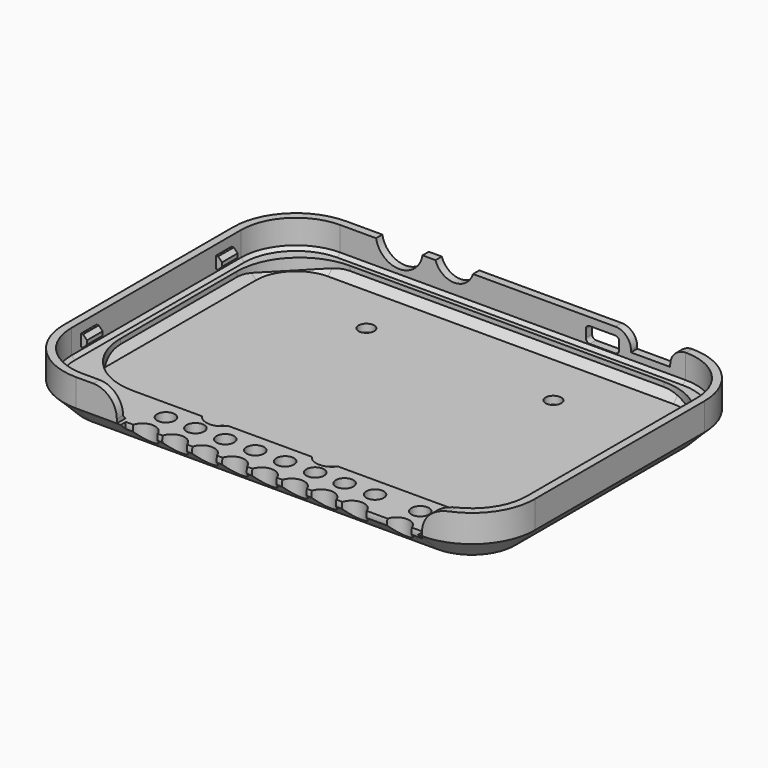
from build123d import *

# Parameters (mm, degrees)
CYLINDER053_R                = 4
CYLINDER053_DEPTH            = 10
CYLINDER051_R                = 4
CYLINDER051_DEPTH            = 10
CYLINDER048_R                = 2
CYLINDER048_DEPTH            = 10
CYLINDER049_R                = 2
CYLINDER049_DEPTH            = 10
CYLINDER050_R                = 2
CYLINDER050_DEPTH            = 10
CYLINDER047_R                = 2
CYLINDER047_DEPTH            = 10
CYLINDER025_R                = 6
CYLINDER025_DEPTH            = 10
BOX016_W                     = 8.5
BOX016_H                     = 8
BOX016_DEPTH                 = 4
FILLET028_R                  = 1
BOX006_W                     = 10
BOX006_H                     = 8
BOX006_DEPTH                 = 9
CYLINDER_R                   = 5
CYLINDER_DEPTH               = 10
BOX022_W                     = 5
BOX022_H                     = 17
BOX022_DEPTH                 = 25
BOX021_W                     = 5
BOX021_H                     = 17
BOX021_DEPTH                 = 25
CYLINDER046_W                = 4
CYLINDER046_H                = 76
CYLINDER046_ANGLE            = 120
THICKNESS002_T               = 2
THICKNESS002_PLACEMENT_ANGLE = 180
CUT014_PLACEMENT_ANGLE       = 180
CYLINDER041_R                = 3.25
CYLINDER041_DEPTH            = 12
CYLINDER044_R                = 3.25
CYLINDER044_DEPTH            = 12
CYLINDER038_R                = 3.25
CYLINDER038_DEPTH            = 12
CYLINDER036_R                = 3.25
CYLINDER036_DEPTH            = 12
CYLINDER037_R                = 3.25
CYLINDER037_DEPTH            = 12
CYLINDER042_R                = 3.25
CYLINDER042_DEPTH            = 12
CYLINDER043_R                = 3.25
CYLINDER043_DEPTH            = 12
CYLINDER045_R                = 3.25
CYLINDER045_DEPTH            = 12
CYLINDER039_R                = 3.25
CYLINDER039_DEPTH            = 12
CYLINDER040_R                = 3.25
CYLINDER040_DEPTH            = 12
CYLINDER006_R                = 2.25
CYLINDER006_DEPTH            = 12
CYLINDER009_R                = 2.25
CYLINDER009_DEPTH            = 12
CYLINDER013_R                = 2.25
CYLINDER013_DEPTH            = 12
CYLINDER011_R                = 2.25
CYLINDER011_DEPTH            = 12
CYLINDER012_R                = 2.25
CYLINDER012_DEPTH            = 12
CYLINDER007_R                = 2.25
CYLINDER007_DEPTH            = 12
CYLINDER008_R                = 2.25
CYLINDER008_DEPTH            = 12
CYLINDER010_R                = 2.25
CYLINDER010_DEPTH            = 12
CYLINDER014_R                = 2.25
CYLINDER014_DEPTH            = 12
CYLINDER005_R                = 2.25
CYLINDER005_DEPTH            = 12
BOX025_W                     = 112
BOX025_H                     = 69
BOX025_DEPTH                 = 8
FILLET035_R                  = 16
FILLET034_R                  = 16
BOX027_W                     = 121.75
BOX027_H                     = 89
BOX027_DEPTH                 = 12
BOX026_W                     = 120
BOX026_H                     = 86
BOX026_DEPTH                 = 6
FILLET036_R                  = 16
FILLET037_R                  = 16
CHAMFER005_SIZE              = 5
BOX013_W                     = 77.75
BOX013_H                     = 10
BOX013_DEPTH                 = 12
BOX023_W                     = 120
BOX023_H                     = 86
BOX023_DEPTH                 = 12
FILLET030_R                  = 16
FILLET031_R                  = 16
CHAMFER004_SIZE              = 5
THICKNESS_T                  = -2
FILLET038_R                  = 6
FILLET039_R                  = 4
BOX018_W                     = 2
BOX018_H                     = 5
BOX018_DEPTH                 = 3
CHAMFER002_SIZE              = 1
BOX017_W                     = 2
BOX017_H                     = 5
BOX017_DEPTH                 = 3
CHAMFER001_SIZE              = 1
BOX019_W                     = 2
BOX019_H                     = 5
BOX019_DEPTH                 = 3
CHAMFER003_SIZE              = 1
BOX_W                        = 2
BOX_H                        = 5
BOX_DEPTH                    = 3
CHAMFER_SIZE                 = 1


with BuildPart() as cilindro053:
    # Cylinder053 → Cylinder053 (new body)
    with BuildSketch(Plane(origin=(61.85, 12.25, -5), x_dir=(1, 0, 0), z_dir=(0, 0, 1))):
        Circle(CYLINDER053_R)
    extrude(amount=CYLINDER053_DEPTH)


with BuildPart() as fusion010:
    # Cylinder051 → Cylinder051 (new body)
    with BuildSketch(Plane(origin=(33.85, 12.25, -5), x_dir=(1, 0, 0), z_dir=(0, 0, 1))):
        Circle(CYLINDER051_R)
    extrude(amount=CYLINDER051_DEPTH)

    # Fusion010: union Cilindro053
    add(cilindro053.part)


with BuildPart() as cilindro048:
    # Cylinder048 → Cylinder048 (new body)
    with BuildSketch(Plane(origin=(28.8, 64.5, -14), x_dir=(1, 0, 0), z_dir=(0, 0, 1))):
        Circle(CYLINDER048_R)
    extrude(amount=CYLINDER048_DEPTH)


with BuildPart() as cilindro049:
    # Cylinder049 → Cylinder049 (new body)
    with BuildSketch(Plane(origin=(61.85, 12.25, -14), x_dir=(1, 0, 0), z_dir=(0, 0, 1))):
        Circle(CYLINDER049_R)
    extrude(amount=CYLINDER049_DEPTH)


with BuildPart() as cilindro050:
    # Cylinder050 → Cylinder050 (new body)
    with BuildSketch(Plane(origin=(77.25, 63.5, -14), x_dir=(1, 0, 0), z_dir=(0, 0, 1))):
        Circle(CYLINDER050_R)
    extrude(amount=CYLINDER050_DEPTH)


with BuildPart() as fusion009:
    # Cylinder047 → Cylinder047 (new body)
    with BuildSketch(Plane(origin=(33.85, 12.25, -14), x_dir=(1, 0, 0), z_dir=(0, 0, 1))):
        Circle(CYLINDER047_R)
    extrude(amount=CYLINDER047_DEPTH)

    # Fusion009: union Cilindro048, Cilindro049, Cilindro050
    add(cilindro048.part)
    add(cilindro049.part)
    add(cilindro050.part)


with BuildPart() as cilindro025:
    # Cylinder025 → Cylinder025 (new body)
    with BuildSketch(Plane(origin=(24, 88, 6), x_dir=(1, 0, 0), z_dir=(0, -1, 0))):
        Circle(CYLINDER025_R)
    extrude(amount=CYLINDER025_DEPTH)


with BuildPart() as fillet028:
    # Box016 → Box016 (new body)
    with BuildSketch(Plane(origin=(72, 75, -1), x_dir=(1, 0, 0), z_dir=(0, 0, 1))):
        with Locations((4.25, 4)):
            Rectangle(BOX016_W, BOX016_H)
    extrude(amount=BOX016_DEPTH)

    # Fillet028
    fillet028_edges = [fillet028.edges().sort_by_distance(p)[0] for p in [
        (72, 79, 3),
        (72, 79, -1),
        (80.5, 79, 3),
        (80.5, 79, -1),
    ]]
    fillet(fillet028_edges, radius=FILLET028_R)


with BuildPart() as fillet028_1:
    # Fillet028 placement: moved
    add(fillet028.part.moved(Location((-0.5, 1, 0))))


with BuildPart() as cubo006:
    # Box006 → Box006 (new body)
    with BuildSketch(Plane(origin=(83, 76, 0.5), x_dir=(1, 0, 0), z_dir=(0, 0, 1))):
        with Locations((5, 4)):
            Rectangle(BOX006_W, BOX006_H)
    extrude(amount=BOX006_DEPTH)


with BuildPart() as fusion008:
    # Cylinder → Cylinder (new body)
    with BuildSketch(Plane(origin=(38, 88, 6.5), x_dir=(1, 0, 0), z_dir=(0, -1, 0))):
        Circle(CYLINDER_R)
    extrude(amount=CYLINDER_DEPTH)

    # Fusion008: union Cilindro025, Fillet028, Cubo006
    add(cilindro025.part)
    add(fillet028_1.part)
    add(cubo006.part)


with BuildPart() as cubo022:
    # Box022 → Box022 (new body)
    with BuildSketch(Plane(origin=(-101, -11, -9), x_dir=(1, 0, 0), z_dir=(0, 0, 1))):
        with Locations((2.5, 8.5)):
            Rectangle(BOX022_W, BOX022_H)
    extrude(amount=BOX022_DEPTH)


with BuildPart() as cubo021:
    # Box021 → Box021 (new body)
    with BuildSketch(Plane(origin=(-20.255, -11, -9), x_dir=(1, 0, 0), z_dir=(0, 0, 1))):
        with Locations((2.5, 8.5)):
            Rectangle(BOX021_W, BOX021_H)
    extrude(amount=BOX021_DEPTH)


with BuildPart() as cilindro_chaflan:
    # Cylinder046 → Cylinder046 (revolve)
    with BuildSketch(Plane(origin=(20, -2, -2), x_dir=(0, 0, -1), z_dir=(0, -1, 0))):
        with Locations((2, 38)):
            Rectangle(CYLINDER046_W, CYLINDER046_H)
    revolve(axis=Axis((20, -2, -2), (1, 0, 0)), revolution_arc=CYLINDER046_ANGLE)

    # Thickness002
    thickness002_openings = [cilindro_chaflan.faces().sort_by_distance(p)[0] for p in [
        (58, -2, -4),
        (58, -0.267949, -1),
    ]]
    offset(amount=THICKNESS002_T, openings=thickness002_openings)


with BuildPart() as cilindro_chaflan_1:
    # Thickness002 placement: moved
    add(cilindro_chaflan.part.moved(Location((0, 0, 6))).rotate(Axis((0, 0, 6), (0, 0, 1)), THICKNESS002_PLACEMENT_ANGLE))

    # Cut013: cut Cubo021
    add(cubo021.part, mode=Mode.SUBTRACT)

    # Cut014: cut Cubo022
    add(cubo022.part, mode=Mode.SUBTRACT)


with BuildPart() as cilindro_chaflan_2:
    # Cut014 placement: moved
    add(cilindro_chaflan_1.part.moved(Location((0, 0.5, 1))).rotate(Axis((0, 0.5, 1), (0, 1, 0)), CUT014_PLACEMENT_ANGLE))


with BuildPart() as cilindro041:
    # Cylinder041 → Cylinder041 (new body)
    with BuildSketch(Plane(origin=(25.25, 5.15, -9), x_dir=(1, 0, 0), z_dir=(0, 0, 1))):
        Circle(CYLINDER041_R)
    extrude(amount=CYLINDER041_DEPTH)


with BuildPart() as cilindro044:
    # Cylinder044 → Cylinder044 (new body)
    with BuildSketch(Plane(origin=(55.6, 5.15, -9), x_dir=(1, 0, 0), z_dir=(0, 0, 1))):
        Circle(CYLINDER044_R)
    extrude(amount=CYLINDER044_DEPTH)


with BuildPart() as cilindro038:
    # Cylinder038 → Cylinder038 (new body)
    with BuildSketch(Plane(origin=(78.5, 5.15, -9), x_dir=(1, 0, 0), z_dir=(0, 0, 1))):
        Circle(CYLINDER038_R)
    extrude(amount=CYLINDER038_DEPTH)


with BuildPart() as cilindro036:
    # Cylinder036 → Cylinder036 (new body)
    with BuildSketch(Plane(origin=(70.75, 5.15, -9), x_dir=(1, 0, 0), z_dir=(0, 0, 1))):
        Circle(CYLINDER036_R)
    extrude(amount=CYLINDER036_DEPTH)


with BuildPart() as cilindro037:
    # Cylinder037 → Cylinder037 (new body)
    with BuildSketch(Plane(origin=(70.75, 5.15, -9), x_dir=(1, 0, 0), z_dir=(0, 0, 1))):
        Circle(CYLINDER037_R)
    extrude(amount=CYLINDER037_DEPTH)


with BuildPart() as cilindro042:
    # Cylinder042 → Cylinder042 (new body)
    with BuildSketch(Plane(origin=(40.35, 5.15, -9), x_dir=(1, 0, 0), z_dir=(0, 0, 1))):
        Circle(CYLINDER042_R)
    extrude(amount=CYLINDER042_DEPTH)


with BuildPart() as cilindro043:
    # Cylinder043 → Cylinder043 (new body)
    with BuildSketch(Plane(origin=(48, 5.15, -9), x_dir=(1, 0, 0), z_dir=(0, 0, 1))):
        Circle(CYLINDER043_R)
    extrude(amount=CYLINDER043_DEPTH)


with BuildPart() as cilindro045:
    # Cylinder045 → Cylinder045 (new body)
    with BuildSketch(Plane(origin=(63.25, 5.15, -9), x_dir=(1, 0, 0), z_dir=(0, 0, 1))):
        Circle(CYLINDER045_R)
    extrude(amount=CYLINDER045_DEPTH)


with BuildPart() as cilindro039:
    # Cylinder039 → Cylinder039 (new body)
    with BuildSketch(Plane(origin=(90, 5.15, -9), x_dir=(1, 0, 0), z_dir=(0, 0, 1))):
        Circle(CYLINDER039_R)
    extrude(amount=CYLINDER039_DEPTH)


with BuildPart() as obj1:
    # Cylinder040 → Cylinder040 (new body)
    with BuildSketch(Plane(origin=(32.75, 5.15, -9), x_dir=(1, 0, 0), z_dir=(0, 0, 1))):
        Circle(CYLINDER040_R)
    extrude(amount=CYLINDER040_DEPTH)

    # Fusion003: union Cilindro041, Cilindro044, Cilindro038, Cilindro036, Cilindro037, Cilindro042, Cilindro043, Cilindro045, Cilindro039
    add(cilindro041.part)
    add(cilindro044.part)
    add(cilindro038.part)
    add(cilindro036.part)
    add(cilindro037.part)
    add(cilindro042.part)
    add(cilindro043.part)
    add(cilindro045.part)
    add(cilindro039.part)


with BuildPart() as obj1_1:
    # Fusion003 placement: moved
    add(obj1.part.moved(Location((0, -7.5, 1))))


with BuildPart() as cilindro006:
    # Cylinder006 → Cylinder006 (new body)
    with BuildSketch(Plane(origin=(25.25, 5.15, -9), x_dir=(1, 0, 0), z_dir=(0, 0, 1))):
        Circle(CYLINDER006_R)
    extrude(amount=CYLINDER006_DEPTH)


with BuildPart() as cilindro009:
    # Cylinder009 → Cylinder009 (new body)
    with BuildSketch(Plane(origin=(55.6, 5.15, -9), x_dir=(1, 0, 0), z_dir=(0, 0, 1))):
        Circle(CYLINDER009_R)
    extrude(amount=CYLINDER009_DEPTH)


with BuildPart() as cilindro013:
    # Cylinder013 → Cylinder013 (new body)
    with BuildSketch(Plane(origin=(78.5, 5.15, -9), x_dir=(1, 0, 0), z_dir=(0, 0, 1))):
        Circle(CYLINDER013_R)
    extrude(amount=CYLINDER013_DEPTH)


with BuildPart() as cilindro011:
    # Cylinder011 → Cylinder011 (new body)
    with BuildSketch(Plane(origin=(70.75, 5.15, -9), x_dir=(1, 0, 0), z_dir=(0, 0, 1))):
        Circle(CYLINDER011_R)
    extrude(amount=CYLINDER011_DEPTH)


with BuildPart() as cilindro012:
    # Cylinder012 → Cylinder012 (new body)
    with BuildSketch(Plane(origin=(70.75, 5.15, -9), x_dir=(1, 0, 0), z_dir=(0, 0, 1))):
        Circle(CYLINDER012_R)
    extrude(amount=CYLINDER012_DEPTH)


with BuildPart() as cilindro007:
    # Cylinder007 → Cylinder007 (new body)
    with BuildSketch(Plane(origin=(40.35, 5.15, -9), x_dir=(1, 0, 0), z_dir=(0, 0, 1))):
        Circle(CYLINDER007_R)
    extrude(amount=CYLINDER007_DEPTH)


with BuildPart() as cilindro008:
    # Cylinder008 → Cylinder008 (new body)
    with BuildSketch(Plane(origin=(48, 5.15, -9), x_dir=(1, 0, 0), z_dir=(0, 0, 1))):
        Circle(CYLINDER008_R)
    extrude(amount=CYLINDER008_DEPTH)


with BuildPart() as cilindro010:
    # Cylinder010 → Cylinder010 (new body)
    with BuildSketch(Plane(origin=(63.25, 5.15, -9), x_dir=(1, 0, 0), z_dir=(0, 0, 1))):
        Circle(CYLINDER010_R)
    extrude(amount=CYLINDER010_DEPTH)


with BuildPart() as cilindro014:
    # Cylinder014 → Cylinder014 (new body)
    with BuildSketch(Plane(origin=(90, 5.15, -9), x_dir=(1, 0, 0), z_dir=(0, 0, 1))):
        Circle(CYLINDER014_R)
    extrude(amount=CYLINDER014_DEPTH)


with BuildPart() as obj2:
    # Cylinder005 → Cylinder005 (new body)
    with BuildSketch(Plane(origin=(32.75, 5.15, -9), x_dir=(1, 0, 0), z_dir=(0, 0, 1))):
        Circle(CYLINDER005_R)
    extrude(amount=CYLINDER005_DEPTH)

    # Fusion: union Cilindro006, Cilindro009, Cilindro013, Cilindro011, Cilindro012, Cilindro007, Cilindro008, Cilindro010, Cilindro014
    add(cilindro006.part)
    add(cilindro009.part)
    add(cilindro013.part)
    add(cilindro011.part)
    add(cilindro012.part)
    add(cilindro007.part)
    add(cilindro008.part)
    add(cilindro010.part)
    add(cilindro014.part)


with BuildPart() as obj2_1:
    # Fusion placement: moved
    add(obj2.part.moved(Location((0, 0, 2.25))))


with BuildPart() as fillet034:
    # Box025 → Box025 (new body)
    with BuildSketch(Plane(origin=(-3, 10, -21), x_dir=(1, 0, 0), z_dir=(0, 0, 1))):
        with Locations((56, 34.5)):
            Rectangle(BOX025_W, BOX025_H)
    extrude(amount=BOX025_DEPTH)

    # Fillet035
    fillet035_edges = [fillet034.edges().sort_by_distance(p)[0] for p in [
        (109, 79, -17),
    ]]
    fillet(fillet035_edges, radius=FILLET035_R)

    # Fillet034
    fillet034_edges = [fillet034.edges().sort_by_distance(p)[0] for p in [
        (109, 10, -17),
        (-3, 10, -17),
        (-3, 79, -17),
    ]]
    fillet(fillet034_edges, radius=FILLET034_R)


with BuildPart() as fillet034_1:
    # Fillet034 placement: moved
    add(fillet034.part.moved(Location((0, 0, 13))))


with BuildPart() as cubo027:
    # Box027 → Box027 (new body)
    with BuildSketch(Plane(origin=(-7.75, -4, -2), x_dir=(1, 0, 0), z_dir=(0, 0, 1))):
        with Locations((60.875, 44.5)):
            Rectangle(BOX027_W, BOX027_H)
    extrude(amount=BOX027_DEPTH)


with BuildPart() as cut024:
    # Box026 → Box026 (new body)
    with BuildSketch(Plane(origin=(-7.1, -3, -20), x_dir=(1, 0, 0), z_dir=(0, 0, 1))):
        with Locations((60, 43)):
            Rectangle(BOX026_W, BOX026_H)
    extrude(amount=BOX026_DEPTH)

    # Fillet036
    fillet036_edges = [cut024.edges().sort_by_distance(p)[0] for p in [
        (112.9, 83, -17),
    ]]
    fillet(fillet036_edges, radius=FILLET036_R)

    # Fillet037
    fillet037_edges = [cut024.edges().sort_by_distance(p)[0] for p in [
        (112.9, -3, -17),
        (-7.1, -3, -17),
        (-7.1, 83, -17),
    ]]
    fillet(fillet037_edges, radius=FILLET037_R)


with BuildPart() as cut024_1:
    # Fillet037 placement: moved
    add(cut024.part.moved(Location((0, 0, 13))))

    # Chamfer005
    chamfer005_edges = [cut024_1.edges().sort_by_distance(p)[0] for p in [
        (112.9, 40, -7),
        (108.213708, 1.686292, -7),
        (108.213708, 78.313708, -7),
        (52.9, 83, -7),
        (-2.413708, 78.313708, -7),
        (-7.1, 40, -7),
        (-2.413708, 1.686292, -7),
    ]]
    chamfer(chamfer005_edges, length=CHAMFER005_SIZE)

    # Cut023: cut Cubo027
    add(cubo027.part, mode=Mode.SUBTRACT)

    # Cut024: cut Fillet034
    add(fillet034_1.part, mode=Mode.SUBTRACT)


with BuildPart() as cubo013:
    # Box013 → Box013 (new body)
    with BuildSketch(Plane(origin=(19.25, -4, -2), x_dir=(1, 0, 0), z_dir=(0, 0, 1))):
        with Locations((38.875, 5)):
            Rectangle(BOX013_W, BOX013_H)
    extrude(amount=BOX013_DEPTH)


with BuildPart() as cut030:
    # Box023 → Box023 (new body)
    with BuildSketch(Plane(origin=(-7.1, -3, -20), x_dir=(1, 0, 0), z_dir=(0, 0, 1))):
        with Locations((60, 43)):
            Rectangle(BOX023_W, BOX023_H)
    extrude(amount=BOX023_DEPTH)

    # Fillet030
    fillet030_edges = [cut030.edges().sort_by_distance(p)[0] for p in [
        (112.9, 83, -14),
    ]]
    fillet(fillet030_edges, radius=FILLET030_R)

    # Fillet031
    fillet031_edges = [cut030.edges().sort_by_distance(p)[0] for p in [
        (112.9, -3, -14),
        (-7.1, -3, -14),
        (-7.1, 83, -14),
    ]]
    fillet(fillet031_edges, radius=FILLET031_R)


with BuildPart() as cut030_1:
    # Fillet031 placement: moved
    add(cut030.part.moved(Location((0, 0, 13))))

    # Chamfer004
    chamfer004_edges = [cut030_1.edges().sort_by_distance(p)[0] for p in [
        (112.9, 40, -7),
        (108.213708, 1.686292, -7),
        (108.213708, 78.313708, -7),
        (52.9, 83, -7),
        (-2.413708, 78.313708, -7),
        (-7.1, 40, -7),
        (-2.413708, 1.686292, -7),
    ]]
    chamfer(chamfer004_edges, length=CHAMFER004_SIZE)

    # Thickness
    thickness_openings = [cut030_1.faces().sort_by_distance(p)[0] for p in [
        (52.9, 40, 5),
    ]]
    offset(amount=THICKNESS_T, openings=thickness_openings)

    # Cut: cut Cubo013
    add(cubo013.part, mode=Mode.SUBTRACT)

    # Fusion007: union Cut024
    add(cut024_1.part)

    # Cut025: cut obj2
    add(obj2_1.part, mode=Mode.SUBTRACT)

    # Cut026: cut obj1
    add(obj1_1.part, mode=Mode.SUBTRACT)

    # Cut027: cut Cilindro_chaflan
    add(cilindro_chaflan_2.part, mode=Mode.SUBTRACT)

    # Fillet038
    fillet038_edges = [cut030_1.edges().sort_by_distance(p)[0] for p in [
        (97, -1.999665, 5),
        (19.25, -2, 5),
    ]]
    fillet(fillet038_edges, radius=FILLET038_R)

    # Cut028: cut Fusion008
    add(fusion008.part, mode=Mode.SUBTRACT)

    # Fillet039
    fillet039_edges = [cut030_1.edges().sort_by_distance(p)[0] for p in [
        (93, 82, 5),
        (83, 82, 5),
    ]]
    fillet(fillet039_edges, radius=FILLET039_R)

    # Cut029: cut Fusion009
    add(fusion009.part, mode=Mode.SUBTRACT)

    # Cut030: cut Fusion010
    add(fusion010.part, mode=Mode.SUBTRACT)


with BuildPart() as chamfer002:
    # Box018 → Box018 (new body)
    with BuildSketch(Plane(origin=(-5.25, 27, -2), x_dir=(1, 0, 0), z_dir=(0, 0, 1))):
        with Locations((1, 2.5)):
            Rectangle(BOX018_W, BOX018_H)
    extrude(amount=BOX018_DEPTH)

    # Chamfer002
    chamfer002_edges = [chamfer002.edges().sort_by_distance(p)[0] for p in [
        (-3.25, 29.5, 1),
        (-3.25, 29.5, -2),
    ]]
    chamfer(chamfer002_edges, length=CHAMFER002_SIZE)


with BuildPart() as chamfer002_1:
    # Chamfer002 placement: moved
    add(chamfer002.part.moved(Location((-0.3, 32, 1.5))))


with BuildPart() as chamfer001:
    # Box017 → Box017 (new body)
    with BuildSketch(Plane(origin=(109, 27, -2), x_dir=(1, 0, 0), z_dir=(0, 0, 1))):
        with Locations((1, 2.5)):
            Rectangle(BOX017_W, BOX017_H)
    extrude(amount=BOX017_DEPTH)

    # Chamfer001
    chamfer001_edges = [chamfer001.edges().sort_by_distance(p)[0] for p in [
        (109, 29.5, 1),
        (109, 29.5, -2),
    ]]
    chamfer(chamfer001_edges, length=CHAMFER001_SIZE)


with BuildPart() as chamfer001_1:
    # Chamfer001 placement: moved
    add(chamfer001.part.moved(Location((0.3, -11, 1.5))))


with BuildPart() as chamfer003:
    # Box019 → Box019 (new body)
    with BuildSketch(Plane(origin=(109, 27, -2), x_dir=(1, 0, 0), z_dir=(0, 0, 1))):
        with Locations((1, 2.5)):
            Rectangle(BOX019_W, BOX019_H)
    extrude(amount=BOX019_DEPTH)

    # Chamfer003
    chamfer003_edges = [chamfer003.edges().sort_by_distance(p)[0] for p in [
        (109, 29.5, 1),
        (109, 29.5, -2),
    ]]
    chamfer(chamfer003_edges, length=CHAMFER003_SIZE)


with BuildPart() as chamfer003_1:
    # Chamfer003 placement: moved
    add(chamfer003.part.moved(Location((0.3, 32, 1.5))))


with BuildPart() as fusion011:
    # Box → Box (new body)
    with BuildSketch(Plane(origin=(-5.25, 27, -2), x_dir=(1, 0, 0), z_dir=(0, 0, 1))):
        with Locations((1, 2.5)):
            Rectangle(BOX_W, BOX_H)
    extrude(amount=BOX_DEPTH)

    # Chamfer
    chamfer_edges = [fusion011.edges().sort_by_distance(p)[0] for p in [
        (-3.25, 29.5, 1),
        (-3.25, 29.5, -2),
    ]]
    chamfer(chamfer_edges, length=CHAMFER_SIZE)


with BuildPart() as fusion011_1:
    # Chamfer placement: moved
    add(fusion011.part.moved(Location((-0.3, -11, 1.5))))

    # Fusion006: union Chamfer002, Chamfer001, Chamfer003
    add(chamfer002_1.part)
    add(chamfer001_1.part)
    add(chamfer003_1.part)

    # Fusion011: union Cut030
    add(cut030_1.part)


solid = fusion011_1.part
